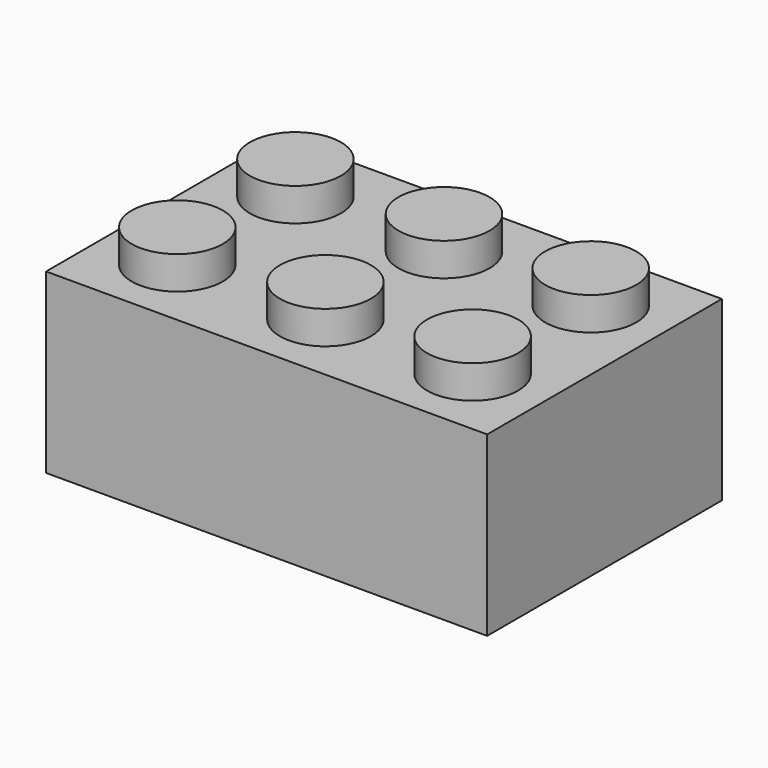
from build123d import *

# Parameters (mm, degrees)
F0_W      = 23.749
F0_H      = 15.7988
F1_DEPTH  = 9.5504
F2_R      = 2.4511
F8_DEPTH  = 1.778
F4_R      = 2.4511
F9_DEPTH  = 1.778
F6_R      = 2.4511
F10_DEPTH = 1.778
F3_R      = 2.4511
F11_DEPTH = 1.778
F5_R      = 2.4511
F12_DEPTH = 1.778
F7_R      = 2.4511
F13_DEPTH = 1.778
F14_W     = 22.5298
F14_H     = 14.5796
F17_DEPTH = 8.3312
F15_R     = 3.2385
F18_DEPTH = 8.3312
F16_R     = 3.2385
F19_DEPTH = 8.3312
F20_R     = 2.794
F22_DEPTH = 8.3312
F21_R     = 2.794
F23_DEPTH = 8.3312


with BuildPart() as f1:
    # F0 (on Top) → F1 (new body)
    with BuildSketch(Plane.XY):
        Rectangle(F0_W, F0_H)
    extrude(amount=F1_DEPTH)

    # F2 (on face) → F8 (join)
    with BuildSketch(Plane.XY.offset(9.5504)):
        with Locations((-7.9502, 3.9751)):
            Circle(F2_R)
    extrude(amount=F8_DEPTH)

    # F4 (on face) → F9 (join)
    with BuildSketch(Plane.XY.offset(9.5504)):
        with Locations((7.9502, 3.9751)):
            Circle(F4_R)
    extrude(amount=F9_DEPTH)

    # F6 (on face) → F10 (join)
    with BuildSketch(Plane.XY.offset(9.5504)):
        with Locations((7.9502, -3.9751)):
            Circle(F6_R)
    extrude(amount=F10_DEPTH)

    # F3 (on face) → F11 (join)
    with BuildSketch(Plane.XY.offset(9.5504)):
        with Locations((0.0508, 3.975429)):
            Circle(F3_R)
    extrude(amount=F11_DEPTH)

    # F5 (on face) → F12 (join)
    with BuildSketch(Plane.XY.offset(9.5504)):
        with Locations((-7.9502, -3.9751)):
            Circle(F5_R)
    extrude(amount=F12_DEPTH)

    # F7 (on face) → F13 (join)
    with BuildSketch(Plane.XY.offset(9.5504)):
        with Locations((0.0254, -3.9751)):
            Circle(F7_R)
    extrude(amount=F13_DEPTH)

    # F14 (on face) → F17 (cut)
    with BuildSketch(Plane(origin=(0, 0, 0), x_dir=(1, 0, 0), z_dir=(0, 0, -1))):
        Rectangle(F14_W, F14_H)
    extrude(amount=-F17_DEPTH, mode=Mode.SUBTRACT)

    # F15 (on face) → F18 (join)
    with BuildSketch(Plane(origin=(0, 0, 0), x_dir=(1, 0, 0), z_dir=(0, 0, -1))):
        with Locations((-5.4102, -0.0127)):
            Circle(F15_R)
    extrude(amount=-F18_DEPTH)

    # F16 (on face) → F19 (join)
    with BuildSketch(Plane(origin=(0, 0, 0), x_dir=(1, 0, 0), z_dir=(0, 0, -1))):
        with Locations((5.4102, 0)):
            Circle(F16_R)
    extrude(amount=-F19_DEPTH)

    # F20 (on face) → F22 (cut)
    with BuildSketch(Plane(origin=(0, 0, 0), x_dir=(1, 0, 0), z_dir=(0, 0, -1))):
        with Locations((-5.4102, -0.0127)):
            Circle(F20_R)
    extrude(amount=-F22_DEPTH, mode=Mode.SUBTRACT)

    # F21 (on face) → F23 (cut)
    with BuildSketch(Plane(origin=(0, 0, 0), x_dir=(1, 0, 0), z_dir=(0, 0, -1))):
        with Locations((5.4102, 0)):
            Circle(F21_R)
    extrude(amount=-F23_DEPTH, mode=Mode.SUBTRACT)


solid = f1.part
